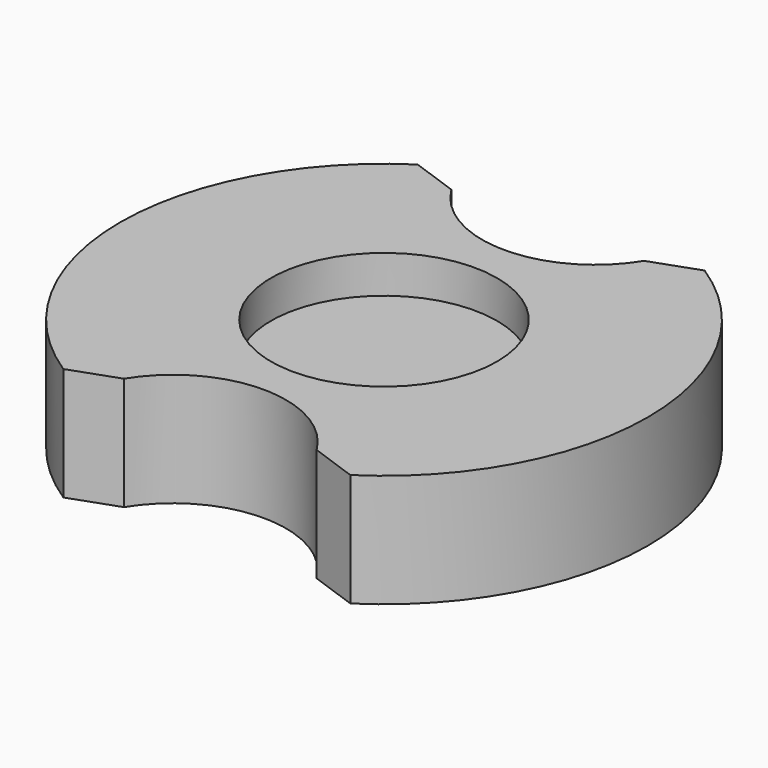
from build123d import *

# Parameters (mm, degrees)
CYLINDER001_R     = 3
CYLINDER001_DEPTH = 1
CYLINDER004_R     = 3
CYLINDER004_DEPTH = 3
CYLINDER003_R     = 3
CYLINDER003_DEPTH = 3
CYLINDER002_R     = 7
CYLINDER002_DEPTH = 3
CHAMFER_SIZE      = 1


with BuildPart() as cilindro001:
    # Cylinder001 → Cylinder001 (new body)
    with BuildSketch(Plane(origin=(4, 16, -1), x_dir=(1, 0, 0), z_dir=(0, 0, 1))):
        Circle(CYLINDER001_R)
    extrude(amount=CYLINDER001_DEPTH)


with BuildPart() as cilindro004:
    # Cylinder004 → Cylinder004 (new body)
    with BuildSketch(Plane(origin=(4, 9, -3), x_dir=(1, 0, 0), z_dir=(0, 0, 1))):
        Circle(CYLINDER004_R)
    extrude(amount=CYLINDER004_DEPTH)


with BuildPart() as cilindro003:
    # Cylinder003 → Cylinder003 (new body)
    with BuildSketch(Plane(origin=(4, 23, -3), x_dir=(1, 0, 0), z_dir=(0, 0, 1))):
        Circle(CYLINDER003_R)
    extrude(amount=CYLINDER003_DEPTH)


with BuildPart() as chamfer_body:
    # Cylinder002 → Cylinder002 (new body)
    with BuildSketch(Plane(origin=(4, 16, -3), x_dir=(1, 0, 0), z_dir=(0, 0, 1))):
        Circle(CYLINDER002_R)
    extrude(amount=CYLINDER002_DEPTH)

    # Cut003: cut Cilindro003
    add(cilindro003.part, mode=Mode.SUBTRACT)

    # Cut004: cut Cilindro004
    add(cilindro004.part, mode=Mode.SUBTRACT)

    # Cut005: cut Cilindro001
    add(cilindro001.part, mode=Mode.SUBTRACT)

    # Chamfer
    chamfer_edges = [chamfer_body.edges().sort_by_distance(p)[0] for p in [
        (6.930313, 22.357143, -1.5),
        (1.069687, 22.357143, -1.5),
        (6.930313, 9.642857, -1.5),
        (1.069687, 9.642857, -1.5),
    ]]
    chamfer(chamfer_edges, length=CHAMFER_SIZE)


with BuildPart() as chamfer_body_1:
    # Chamfer placement: moved
    add(chamfer_body.part.moved(Location((-38, 1, 3))))


solid = chamfer_body_1.part
